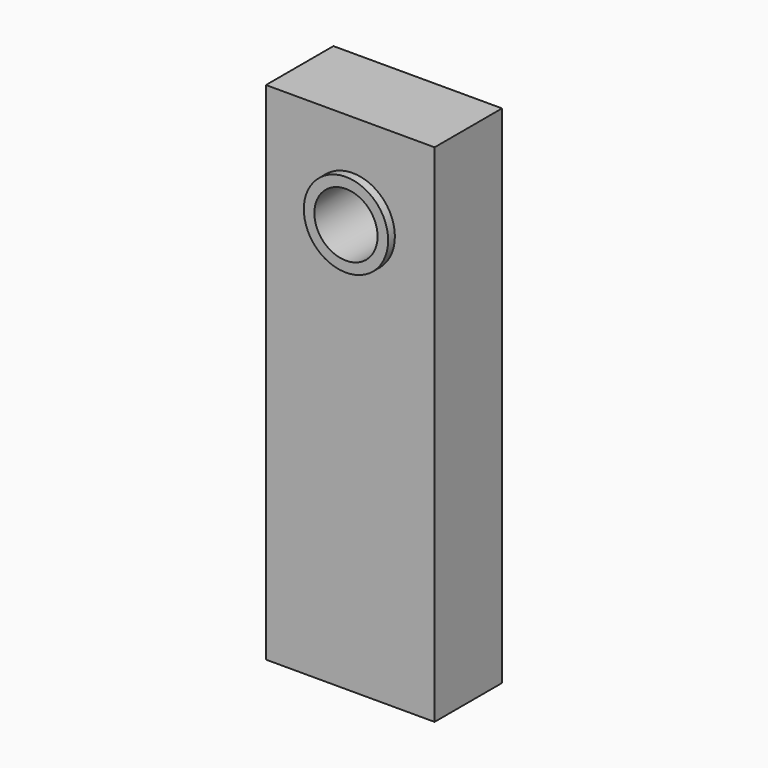
from build123d import *

# Parameters (mm, degrees)
F0_W     = 50.8
F0_H     = 25.4
F1_DEPTH = 152.4
F2_R     = 9.525
F3_DEPTH = 25.4
F4_R     = 12.7
F4_R_2   = 9.525
F5_DEPTH = 2.54


with BuildPart() as f1:
    # F0 (on Top) → F1 (new body)
    with BuildSketch(Plane.XY):
        with Locations((-25.4, -12.7)):
            Rectangle(F0_W, F0_H)
    extrude(amount=F1_DEPTH)

    # F2 (on face) → F3 (cut)
    with BuildSketch(Plane.XZ.offset(25.4)):
        with Locations((-24.664951, 124.869779)):
            Circle(F2_R)
    extrude(amount=-F3_DEPTH, mode=Mode.SUBTRACT)

    # F4 (on face) → F5 (join)
    with BuildSketch(Plane.XZ.offset(25.4)):
        with Locations((-24.664951, 124.869779)):
            Circle(F4_R)
        with Locations((-24.664951, 124.869779)):
            Circle(F4_R_2, mode=Mode.SUBTRACT)
    extrude(amount=F5_DEPTH)


solid = f1.part
